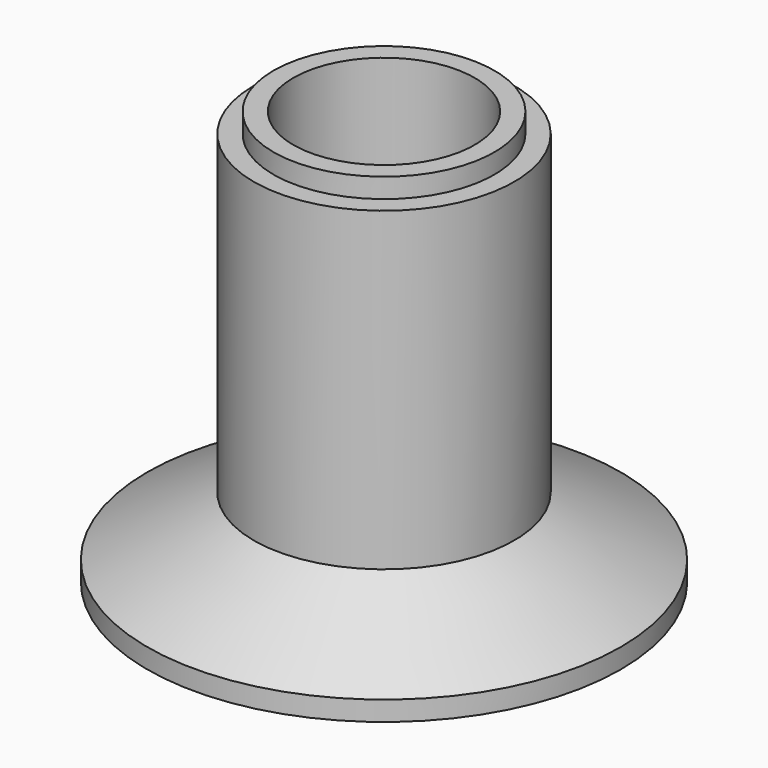
from build123d import *


with BuildPart() as part:
    # Sketch → Revolution (revolve)
    with BuildSketch(Plane.XZ):
        Polygon((0, 0), (-60, 0), (-60, 5), (-33, 20), (-33, 100), (-28, 100), (-28, 105), (-23, 105), (-23, 5), (0, 5), align=None)
    revolve(axis=Axis((0, 0, 0), (0, 0, 1)))


solid = part.part
